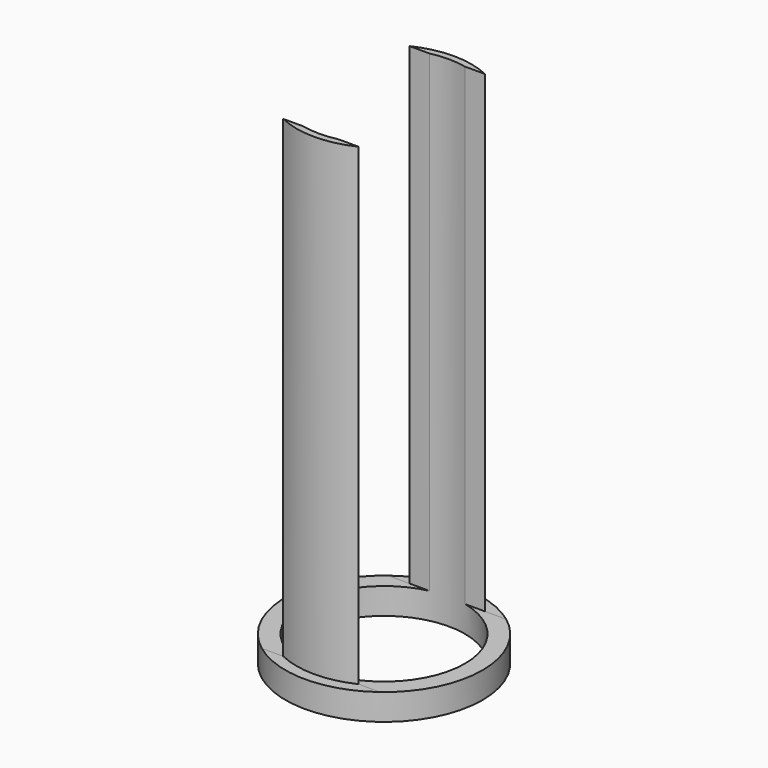
from build123d import *

# Parameters (mm, degrees)
SKETCH_R      = 7.5
SKETCH_R_2    = 6.15
PAD_DEPTH     = 2
SKETCH001_R   = 6.65
SKETCH001_R_2 = 6.15
PAD001_DEPTH  = 36
SKETCH002_W   = 42.259399
SKETCH002_H   = 12
POCKET_DEPTH  = 17.501


with BuildPart() as part:
    # Sketch → Pad (new body)
    with BuildSketch(Plane.XY):
        Circle(SKETCH_R)
        Circle(SKETCH_R_2, mode=Mode.SUBTRACT)
    extrude(amount=PAD_DEPTH)

    # Sketch001 (on Face4 of Pad) → Pad001 (join)
    with BuildSketch(Plane.XY.offset(2)):
        Circle(SKETCH001_R)
        Circle(SKETCH001_R_2, mode=Mode.SUBTRACT)
    extrude(amount=PAD001_DEPTH)

    # Sketch002 (on DatumPlane) → Pocket (cut, through all)
    with BuildSketch(Plane(origin=(10, 0, 0), x_dir=(0, 0, -1), z_dir=(1, 0, 0))):
        with Locations((-23.129699, 0)):
            Rectangle(SKETCH002_W, SKETCH002_H)
    extrude(amount=-POCKET_DEPTH, mode=Mode.SUBTRACT)


solid = part.part
